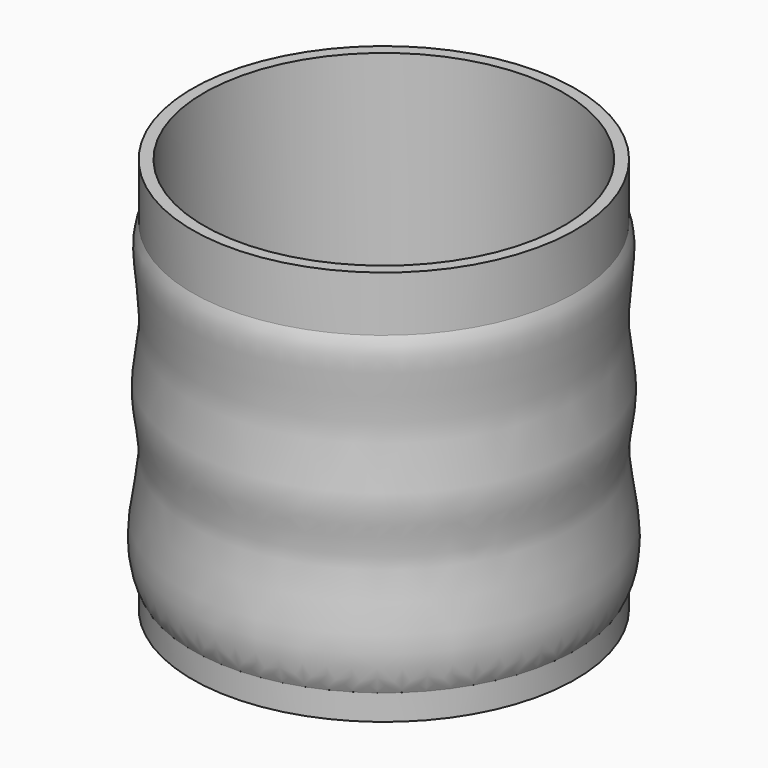
from build123d import *

# Parameters (mm, degrees)
F3_SIZE = 2


with BuildPart() as f2:
    # F1 (on Right) → F2 (revolve)
    with BuildSketch(Plane.YZ):
        with BuildLine():
            Line((16.5, -33.714233458), (0, -33.714233458))
            Line((0, -33.714233458), (0, -36.714233458))
            Line((0, -36.714233458), (49.4950935245, -36.714233458))
            Line((49.4950935245, -36.714233458), (49.5, -30.1206093282))
            add(Edge.make_bspline(
                [(49.5, 51.2370988727), (50.7520465494, 48.6634121926), (50.6748853889, 42.4134896311), (48.4536747421, 26.367042969), (52.14257412, 13.5175149962), (48.3266670871, -0.2003504932), (51.6298616954, -13.6681277458), (52.2001720965, -25.0485874712), (49.5, -30.1206093282)],
                knots=[0, 0, 0, 0, 0.1338074642, 0.3150753624, 0.4811174226, 0.6471594829, 0.816268546, 1, 1, 1, 1], degree=3))
            Line((49.5, 51.2370988727), (49.5, 65.533082813))
            Line((49.5, 65.533082813), (46.5, 65.533082813))
            Line((46.5, 65.533082813), (46.5, 4.285766542))
            ThreePointArc((46.5, 4.285766542), (41.2279220614, -8.4421555194), (28.5, -13.714233458))
            Line((28.5, -13.714233458), (16.5, -13.714233458))
            Line((16.5, -13.714233458), (16.5, -33.714233458))
        make_face()
    revolve(axis=Axis((0, 0, -1.9337777048), (0, 0, -1)))

    # F3
    f3_edges = [f2.edges().sort_by_distance(p)[0] for p in [
        (0, -16.5, -13.714233),
    ]]
    chamfer(f3_edges, length=F3_SIZE)


solid = f2.part
